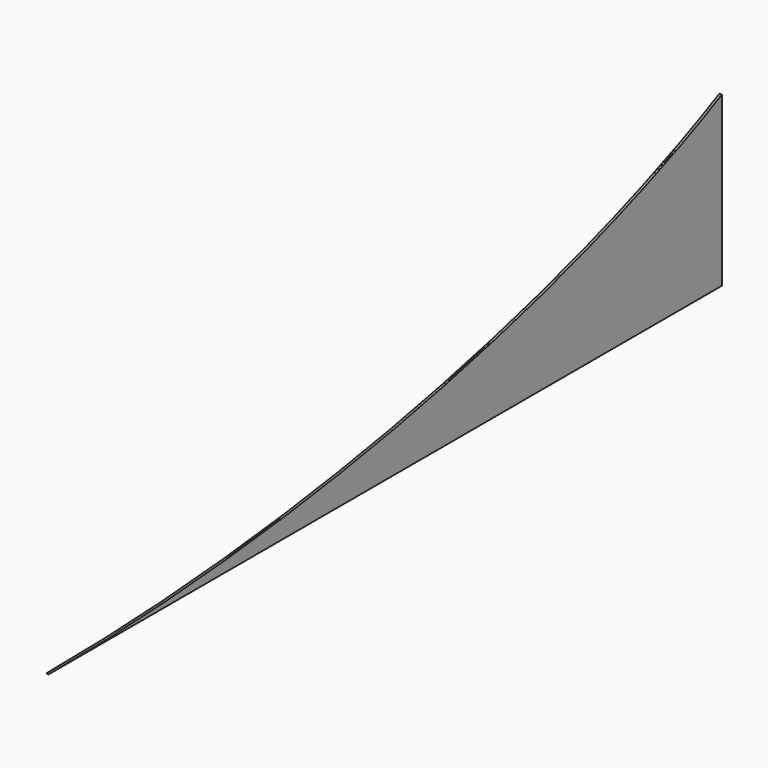
from build123d import *

# Parameters (mm, degrees)
F1_DEPTH = 1.5


with BuildPart() as f1:
    # F0 (on Right) → F1 (new body, symmetric)
    with BuildSketch(Plane.YZ):
        with BuildLine():
            add(Edge.make_bspline(
                [(-467.094934, -51.461596), (-162.185391, -51.461596), (170.61505, 3.340788), (418.412073, 98.538404)],
                knots=[0, 0, 0, 0, 876.197026, 876.197026, 876.197026, 876.197026], degree=3))
            Line((-467.094934, -51.461596), (393.412073, -51.461596))
            Line((393.412073, -51.461596), (418.412073, -51.461596))
            Line((418.412073, -51.461596), (418.412073, 98.538404))
        make_face()
        with BuildLine():
            add(Edge.make_bspline(
                [(418.412073, 98.538404), (459.025491, 114.141096), (497.355503, 130.828906), (532.905066, 148.538404)],
                knots=[876.197026, 876.197026, 876.197026, 876.197026, 1019.803903, 1019.803903, 1019.803903, 1019.803903], degree=3))
            Line((418.412073, 98.538404), (418.412073, -51.461596))
            Line((418.412073, -51.461596), (532.905066, -51.461596))
            Line((532.905066, -51.461596), (532.905066, 148.538404))
        make_face()
    extrude(amount=F1_DEPTH, both=True)


solid = f1.part
